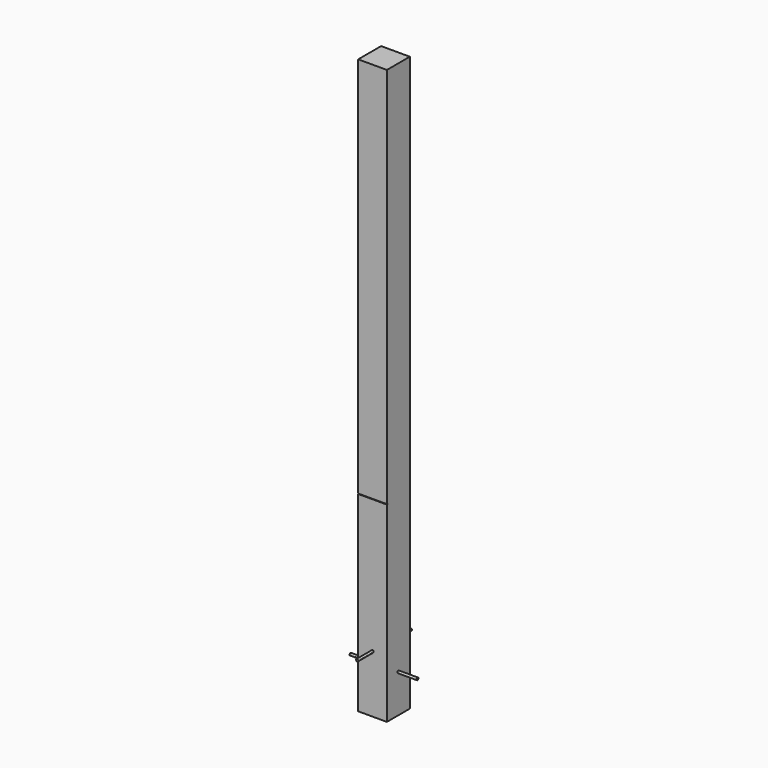
from build123d import *

# Parameters (mm, degrees)
F0_W      = 150
F0_H      = 150
F1_DEPTH  = 3000
F3_DEPTH  = 100
F5_DEPTH  = 100
F7_DEPTH  = 100
F9_DEPTH  = 100
F10_W     = 150
F10_H     = 5
F11_DEPTH = 3


with BuildPart() as f1:
    # F0 (on Top) → F1 (new body)
    with BuildSketch(Plane.XY):
        Rectangle(F0_W, F0_H)
    extrude(amount=F1_DEPTH)

    # F2 (on face) → F3 (join)
    with BuildSketch(Plane.XZ.offset(75)):
        with BuildLine():
            ThreePointArc((0, 294), (4.242641, 295.757359), (6, 300))
            ThreePointArc((6, 300), (-4.242641, 304.242641), (0, 294))
        make_face()
    extrude(amount=F3_DEPTH)

    # F4 (on face) → F5 (join)
    with BuildSketch(Plane(origin=(0, 75, 0), x_dir=(-1, 0, 0), z_dir=(0, 1, 0))):
        with BuildLine():
            ThreePointArc((0, 294), (4.242641, 295.757359), (6, 300))
            ThreePointArc((6, 300), (-4.242641, 304.242641), (0, 294))
        make_face()
    extrude(amount=F5_DEPTH)

    # F6 (on face) → F7 (join)
    with BuildSketch(Plane(origin=(-75, 0, 0), x_dir=(0, -1, 0), z_dir=(-1, 0, 0))):
        with BuildLine():
            ThreePointArc((0, 194), (4.242641, 195.757359), (6, 200))
            ThreePointArc((6, 200), (-4.242641, 204.242641), (0, 194))
        make_face()
    extrude(amount=F7_DEPTH)

    # F8 (on face) → F9 (join)
    with BuildSketch(Plane.YZ.offset(75)):
        with BuildLine():
            ThreePointArc((0, 194), (4.242641, 195.757359), (6, 200))
            ThreePointArc((6, 200), (-4.242641, 204.242641), (0, 194))
        make_face()
    extrude(amount=F9_DEPTH)

    # F10 (on face) → F11 (cut)
    with BuildSketch(Plane.XZ.offset(75)):
        with Locations((0, 1002.5)):
            Rectangle(F10_W, F10_H)
    extrude(amount=-F11_DEPTH, mode=Mode.SUBTRACT)


solid = f1.part
